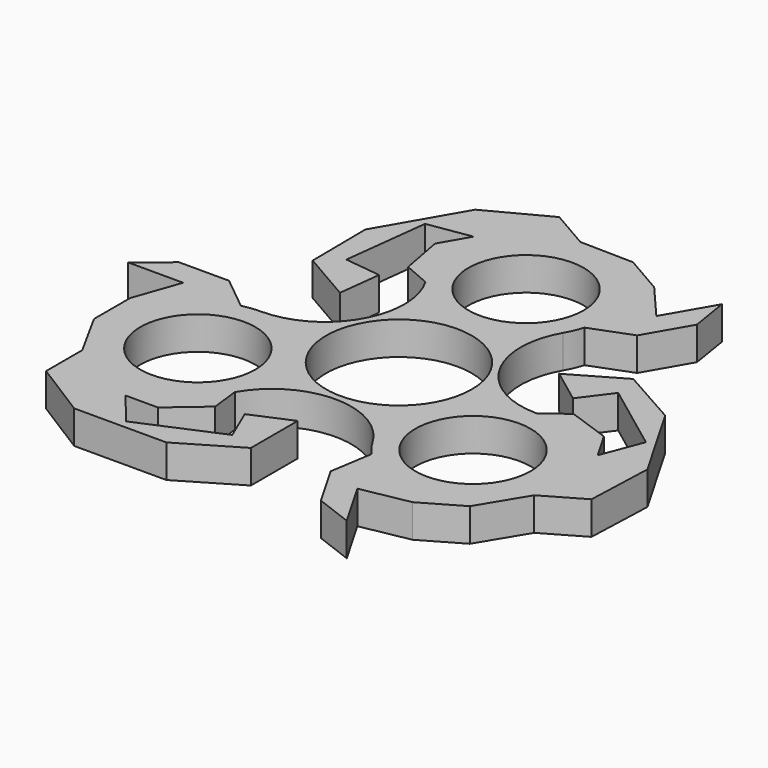
from build123d import *

# Parameters (mm, degrees)
F0_R     = 11.049
F0_R_2   = 13.97
F1_DEPTH = 6.35


with BuildPart() as f1:
    # F0 (on Top) → F1 (new body)
    with BuildSketch(Plane.XY):
        with BuildLine():
            ThreePointArc((26.396454, 0), (13.198227, 7.62), (13.198227, 22.86))
            ThreePointArc((13.198227, 22.86), (14.009272, 24.480176), (14.622308, 26.185155))
            Line((14.622308, 26.185155), (22.382144, 29.153406))
            Line((22.382144, 29.153406), (27.188946, 37.479031))
            Line((27.188946, 37.479031), (25.972238, 44.985235))
            Line((25.972238, 44.985235), (20.700261, 35.853904))
            Line((20.700261, 35.853904), (14.596639, 42.95875))
            Line((14.596639, 42.95875), (7.07672, 47.300377))
            Line((7.07672, 47.300377), (-3.192702, 47.499965))
            Line((-3.192702, 47.499965), (-10.71262, 51.841591))
            Line((-10.71262, 51.841591), (-22.048165, 45.852972))
            Line((-22.048165, 45.852972), (-30.886479, 30.544563))
            Line((-30.886479, 30.544563), (-30.751104, 17.754158))
            Line((-30.751104, 17.754158), (-21.025084, 12.138838))
            Line((-21.025084, 12.138838), (-20.050264, 20.312221))
            Line((-20.050264, 20.312221), (-27.004857, 21.141678))
            Line((-27.004857, 21.141678), (-25.046949, 37.557762))
            Line((-25.046949, 37.557762), (-16.771019, 38.867205))
            Line((-16.771019, 38.867205), (-19.872182, 33.495833))
            Line((-19.872182, 33.495833), (-18.294169, 25.064847))
            Line((-18.294169, 25.064847), (-13.198227, 22.86))
            ThreePointArc((-13.198227, 22.86), (-13.198227, 7.62), (-26.396454, 0))
            ThreePointArc((-26.396454, 0), (-28.205091, -0.107702), (-29.988163, -0.429287))
            Line((-29.988163, -0.429287), (-36.438663, 4.806802))
            Line((-36.438663, 4.806802), (-46.052266, 4.806802))
            Line((-46.052266, 4.806802), (-51.944476, 0))
            Line((-51.944476, 0), (-41.400522, 0))
            Line((-41.400522, 0), (-44.501688, -8.838315))
            Line((-44.501688, -8.838315), (-44.501688, -17.52157))
            Line((-44.501688, -17.52157), (-39.539825, -26.514944))
            Line((-39.539825, -26.514944), (-39.539825, -35.198197))
            Line((-39.539825, -35.198197), (-28.685756, -42.020757))
            Line((-28.685756, -42.020757), (-11.009128, -42.020757))
            Line((-11.009128, -42.020757), (0, -35.508316))
            Line((0, -35.508316), (0, -24.277676))
            Line((0, -24.277676), (-7.565767, -27.520148))
            Line((-7.565767, -27.520148), (-4.806802, -33.957731))
            Line((-4.806802, -33.957731), (-20.002501, -40.470175))
            Line((-20.002501, -40.470175), (-25.274477, -33.957731))
            Line((-25.274477, -33.957731), (-19.072151, -33.957731))
            Line((-19.072151, -33.957731), (-12.559709, -28.375639))
            Line((-12.559709, -28.375639), (-13.198227, -22.86))
            ThreePointArc((-13.198227, -22.86), (0, -15.24), (13.198227, -22.86))
            ThreePointArc((13.198227, -22.86), (14.195818, -24.372474), (15.365855, -25.755868))
            Line((15.365855, -25.755868), (14.056519, -33.960209))
            Line((14.056519, -33.960209), (18.86332, -42.285833))
            Line((18.86332, -42.285833), (25.972238, -44.985235))
            Line((25.972238, -44.985235), (20.700261, -35.853904))
            Line((20.700261, -35.853904), (29.905049, -34.120435))
            Line((29.905049, -34.120435), (37.424968, -29.778808))
            Line((37.424968, -29.778808), (42.732527, -20.985021))
            Line((42.732527, -20.985021), (50.252445, -16.643395))
            Line((50.252445, -16.643395), (50.733921, -3.832215))
            Line((50.733921, -3.832215), (41.895607, 11.476194))
            Line((41.895607, 11.476194), (30.751104, 17.754158))
            Line((30.751104, 17.754158), (21.025084, 12.138838))
            Line((21.025084, 12.138838), (27.616031, 7.207928))
            Line((27.616031, 7.207928), (31.811659, 12.816053))
            Line((31.811659, 12.816053), (45.049451, 2.912414))
            Line((45.049451, 2.912414), (42.045496, -4.909474))
            Line((42.045496, -4.909474), (38.944333, 0.461898))
            Line((38.944333, 0.461898), (30.853878, 3.310792))
            Line((30.853878, 3.310792), (26.396454, 0))
        make_face()
        with Locations((-26.396454, -15.24)):
            Circle(F0_R, mode=Mode.SUBTRACT)
        Circle(F0_R_2, mode=Mode.SUBTRACT)
        with Locations((26.396454, -15.24)):
            Circle(F0_R, mode=Mode.SUBTRACT)
        with Locations((0, 30.48)):
            Circle(F0_R, mode=Mode.SUBTRACT)
    extrude(amount=F1_DEPTH)


solid = f1.part
